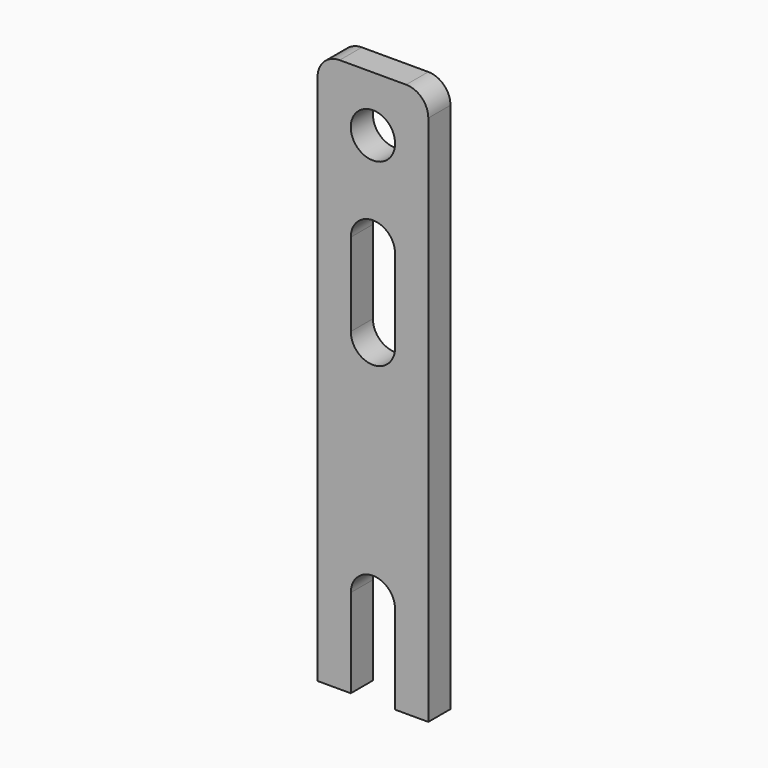
from build123d import *

# Parameters (mm, degrees)
F0_W     = 25.4
F0_H     = 127
F0_R     = 5.08
F1_DEPTH = 6.35
F2_R     = 5.08
F4_DEPTH = 25.4
F6_DEPTH = 6.351


with BuildPart() as f1:
    # F0 (on Front) → F1 (new body)
    with BuildSketch(Plane.XZ):
        with Locations((0, -50.8)):
            Rectangle(F0_W, F0_H)
        Circle(F0_R, mode=Mode.SUBTRACT)
    extrude(amount=F1_DEPTH)

    # F2
    f2_edges = [f1.edges().sort_by_distance(p)[0] for p in [
        (12.7, -3.175, 12.7),
        (-12.7, -3.175, 12.7),
    ]]
    fillet(f2_edges, radius=F2_R)

    # F3 (on face) → F4 (cut)
    with BuildSketch(Plane.XZ.offset(6.35)):
        with BuildLine():
            ThreePointArc((-5.08, -41.275), (0, -46.355), (5.08, -41.275))
            Line((5.08, -41.275), (5.08, -22.225))
            ThreePointArc((5.08, -22.225), (0, -17.145), (-5.08, -22.225))
            Line((-5.08, -22.225), (-5.08, -41.275))
        make_face()
    extrude(amount=-F4_DEPTH, mode=Mode.SUBTRACT)

    # F5 (on face) → F6 (cut, through all)
    with BuildSketch(Plane.XZ.offset(6.35)):
        with BuildLine():
            Line((-5.08, -114.3), (5.08, -114.3))
            Line((5.08, -114.3), (5.08, -93.98))
            ThreePointArc((5.08, -93.98), (0, -88.9), (-5.08, -93.98))
            Line((-5.08, -93.98), (-5.08, -114.3))
        make_face()
    extrude(amount=-F6_DEPTH, mode=Mode.SUBTRACT)


solid = f1.part
